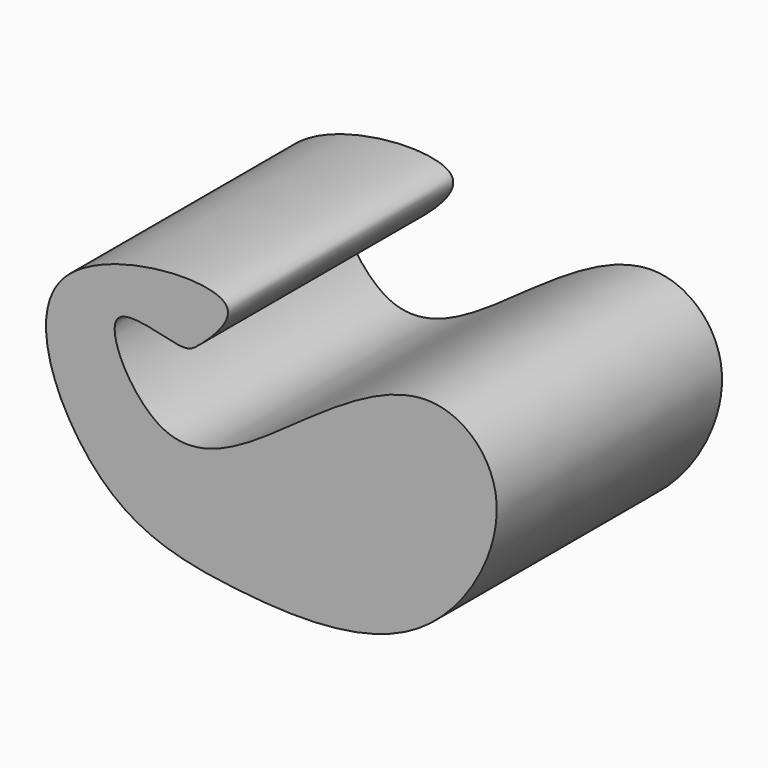
from build123d import *

# Parameters (mm, degrees)
F1_DEPTH = 87.2


with BuildPart() as f1:
    # F0 (on Front) → F1 (new body)
    with BuildSketch(Plane.XZ):
        with BuildLine():
            add(Edge.make_bspline(
                [(-51.5220607245, 38.1525700155), (-55.221876182, 33.6232489122), (-36.8262056795, -2.8672484269), (5.6123945052, 29.960705632), (45.5977292245, 55.5428720279), (75.1689270282, 28.2284950654), (46.2177750846, -27.0446265922), (-16.9922353182, -25.1389526048), (-60.7796440342, -14.6582450145), (-90.3022476069, 54.1454765906), (-3.6061848075, 60.573394545), (-26.5368789294, 38.5520436119), (-31.2986313149, 35.4144720563), (-48.5659222422, 41.7714803548), (-51.5220607245, 38.1525700155)],
                knots=[0, 0, 0, 0, 0.0766927944, 0.1718184052, 0.266901198, 0.340112591, 0.4396504531, 0.5477561659, 0.6433296129, 0.7435873769, 0.8448601194, 0.8998018473, 0.9387227489, 1, 1, 1, 1], degree=3))
        make_face()
    extrude(amount=-F1_DEPTH)


solid = f1.part
